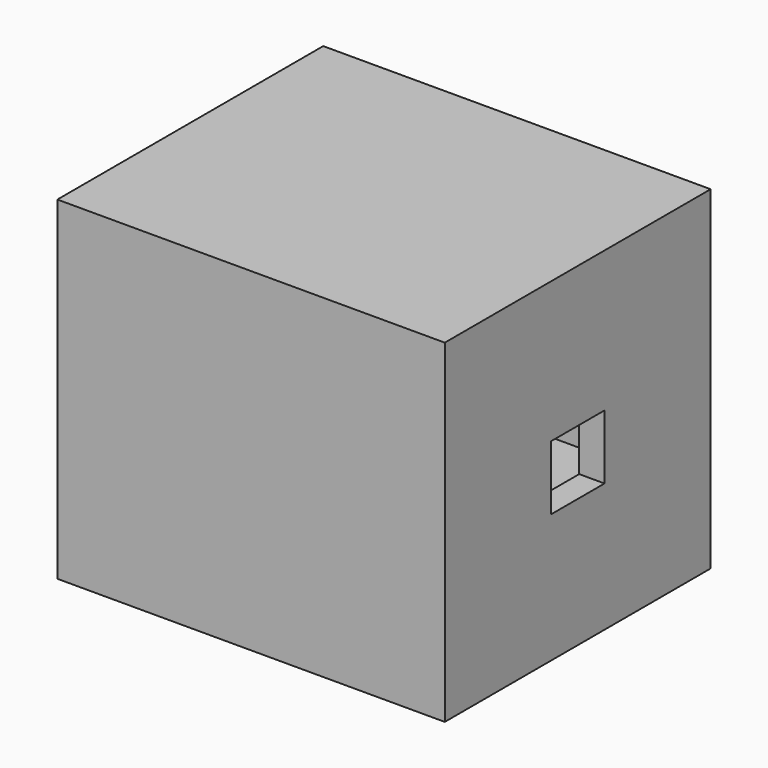
from build123d import *

# Parameters (mm, degrees)
F1_START      = 12.192
F1_DEPTH      = 7.808
F2_DEPTH      = 6.35
F3_DEPTH      = 20
F3_DEPTH_BACK = 6.35
F0_W          = 2
F0_H          = 5.2916666667
F4_DEPTH      = 6.35
F4_DEPTH_BACK = 3.81
F5_START      = 8.89
F5_DEPTH      = 11.11


with BuildPart() as f1:
    # F0 (on Top) → F1 (new body)
    with BuildSketch(Plane.XY.offset(F1_START)):
        Polygon((7.9375, 12.7), (-20.6375, 12.7), (-20.6375, -9.525), (7.9375, -9.525), (7.9375, -1.0583333333), (7.9375, 4.2333333333), align=None)
    extrude(amount=F1_DEPTH)



with BuildPart() as f2:
    # F0 (on Top) → F2 (new body)
    with BuildSketch(Plane.XY):
        Polygon((7.9375, 12.7), (-20.6375, 12.7), (-20.6375, -9.525), (7.9375, -9.525), (7.9375, -1.0583333333), (7.9375, 4.2333333333), align=None)
    extrude(amount=-F2_DEPTH)


with BuildPart() as f1_1:
    add(f1.part)

    add(f2.part)  # F3 merges F2
    # F0 (on Top) → F3 (join, two sides)
    with BuildSketch(Plane.XY) as f3_sk:
        Polygon((9.9375, 14.7), (-20.6375, 14.7), (-20.6375, 12.7), (7.9375, 12.7), (7.9375, 4.2333333333), (9.9375, 4.2333333333), align=None)
        Polygon((7.9375, -9.525), (-20.6375, -9.525), (-20.6375, -11.525), (9.9375, -11.525), (9.9375, -1.0583333333), (7.9375, -1.0583333333), align=None)
    extrude(amount=F3_DEPTH)
    extrude(f3_sk.sketch, amount=-F3_DEPTH_BACK)

    # F0 (on Top) → F4 (join, two sides)
    with BuildSketch(Plane.XY) as f4_sk:
        with Locations((8.9375, 1.5875)):
            Rectangle(F0_W, F0_H)
    extrude(amount=-F4_DEPTH)
    extrude(f4_sk.sketch, amount=F4_DEPTH_BACK)

    # F0 (on Top) → F5 (join)
    with BuildSketch(Plane.XY.offset(F5_START)):
        with Locations((8.9375, 1.5875)):
            Rectangle(F0_W, F0_H)
    extrude(amount=F5_DEPTH)


solid = f1_1.part
